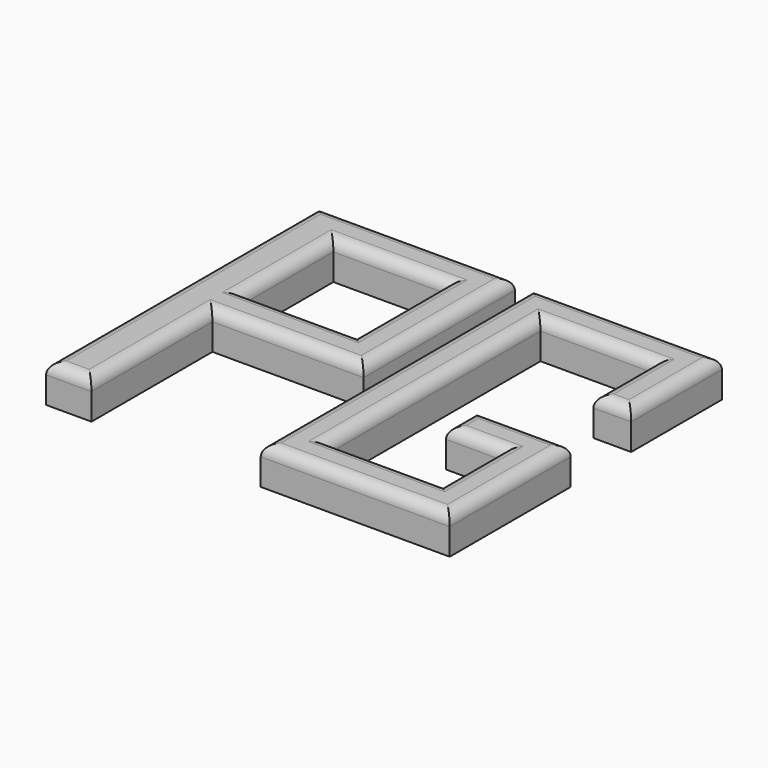
from build123d import *

# Parameters (mm, degrees)
F0_W      = 15.24
F0_H      = 114.3
F1_DEPTH  = 12.7
F2_W      = 12.7
F2_H      = 12.7
F3_DEPTH  = 50.8
F4_W      = 12.7
F4_H      = 12.7
F5_DEPTH  = 38.1
F6_W      = 12.7
F6_H      = 12.7
F7_DEPTH  = 50.8
F8_W      = 12.7
F8_H      = 114.3
F9_DEPTH  = 12.7
F10_W     = 12.7
F10_H     = 12.7
F11_DEPTH = 50.8
F12_W     = 12.7
F12_H     = 12.7
F13_DEPTH = 25.4
F14_W     = 12.7
F14_H     = 12.7
F15_DEPTH = 50.8
F16_W     = 12.7
F16_H     = 12.7
F17_DEPTH = 38.1
F18_W     = 12.7
F18_H     = 12.7
F19_DEPTH = 19.05
F20_R     = 3.81
F20_2_R   = 3.81


with BuildPart() as f1:
    # F0 (on Top) → F1 (new body)
    with BuildSketch(Plane.XY):
        with Locations((-61.178183, -7.791479)):
            Rectangle(F0_W, F0_H)
    extrude(amount=F1_DEPTH)

    # F2 (on face) → F3 (join)
    with BuildSketch(Plane.YZ.offset(-53.558183)):
        with Locations((43.008521, 6.35)):
            Rectangle(F2_W, F2_H)
    extrude(amount=F3_DEPTH)

    # F4 (on face) → F5 (join)
    with BuildSketch(Plane.XZ.offset(-36.658521)):
        with Locations((-9.108183, 6.35)):
            Rectangle(F4_W, F4_H)
    extrude(amount=F5_DEPTH)

    # F6 (on face) → F7 (join)
    with BuildSketch(Plane.YZ.offset(-53.558183)):
        with Locations((-7.791479, 6.35)):
            Rectangle(F6_W, F6_H)
    extrude(amount=F7_DEPTH)

    # F20
    f20_edges = [f1.edges().sort_by_distance(p)[0] for p in [
        (-53.558183, -39.541479, 12.7),
        (-28.158183, -14.141479, 12.7),
        (-2.758183, 17.608521, 12.7),
        (-35.778183, 49.358521, 12.7),
        (-68.798183, -7.791479, 12.7),
        (-61.178183, -64.941479, 12.7),
        (-53.558183, 17.608521, 12.7),
        (-34.508183, 36.658521, 12.7),
        (-15.458183, 17.608521, 12.7),
        (-34.508183, -1.441479, 12.7),
    ]]
    fillet(f20_edges, radius=F20_R)


with BuildPart() as f9:
    # F8 (on Top) → F9 (new body)
    with BuildSketch(Plane.XY):
        with Locations((10.617082, -8.991873)):
            Rectangle(F8_W, F8_H)
    extrude(amount=F9_DEPTH)

    # F10 (on face) → F11 (join)
    with BuildSketch(Plane.YZ.offset(16.967082)):
        with Locations((41.808127, 6.35)):
            Rectangle(F10_W, F10_H)
    extrude(amount=F11_DEPTH)

    # F12 (on face) → F13 (join)
    with BuildSketch(Plane.XZ.offset(-35.458127)):
        with Locations((61.417082, 6.35)):
            Rectangle(F12_W, F12_H)
    extrude(amount=F13_DEPTH)

    # F14 (on face) → F15 (join)
    with BuildSketch(Plane.YZ.offset(16.967082)):
        with Locations((-59.791873, 6.35)):
            Rectangle(F14_W, F14_H)
    extrude(amount=F15_DEPTH)

    # F16 (on face) → F17 (join)
    with BuildSketch(Plane(origin=(0, -53.441873, 0), x_dir=(-1, 0, 0), z_dir=(0, 1, 0))):
        with Locations((-61.417082, 6.35)):
            Rectangle(F16_W, F16_H)
    extrude(amount=F17_DEPTH)

    # F18 (on face) → F19 (join)
    with BuildSketch(Plane(origin=(55.067082, 0, 0), x_dir=(0, -1, 0), z_dir=(-1, 0, 0))):
        with Locations((21.691873, 6.35)):
            Rectangle(F18_W, F18_H)
    extrude(amount=F19_DEPTH)

    # F20#2
    f20_2_edges = [f9.edges().sort_by_distance(p)[0] for p in [
        (16.967082, -8.991873, 12.7),
        (36.017082, 35.458127, 12.7),
        (55.067082, 22.758127, 12.7),
        (61.417082, 10.058127, 12.7),
        (67.767082, 29.108127, 12.7),
        (36.017082, 48.158127, 12.7),
        (4.267082, -8.991873, 12.7),
        (36.017082, -66.141873, 12.7),
        (67.767082, -40.741873, 12.7),
        (51.892082, -15.341873, 12.7),
        (36.017082, -21.691873, 12.7),
        (45.542082, -28.041873, 12.7),
        (55.067082, -40.741873, 12.7),
        (36.017082, -53.441873, 12.7),
    ]]
    fillet(f20_2_edges, radius=F20_2_R)


solid = Compound([f1.part, f9.part])
